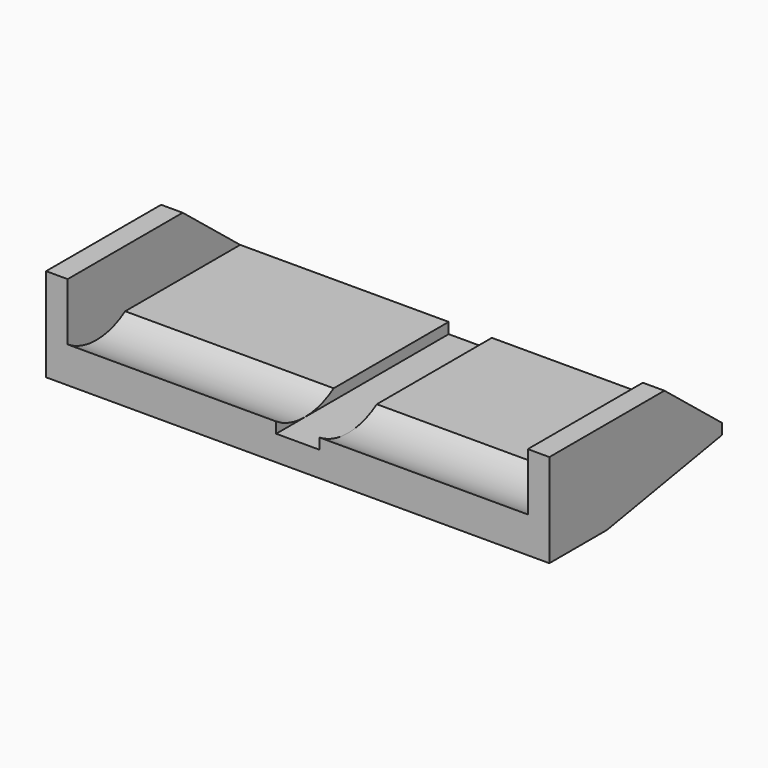
from build123d import *

# Parameters (mm, degrees)
F0_W      = 177.8
F0_H      = 76.2
F1_DEPTH  = 12.7
F3_DEPTH  = 197.612
F4_W      = 7.62
F4_H      = 76.2
F5_DEPTH  = 20.32
F6_W      = 7.62
F6_H      = 76.2
F7_DEPTH  = 20.32
F9_DEPTH  = 73.66
F11_DEPTH = 73.66
F13_DEPTH = 228.6
F15_DEPTH = 228.6


with BuildPart() as f1:
    # F0 (on Top) → F1 (new body)
    with BuildSketch(Plane.XY):
        Rectangle(F0_W, F0_H)
    extrude(amount=F1_DEPTH)

    # F2 (on face) → F3 (cut)
    with BuildSketch(Plane.XZ.offset(38.1)):
        Polygon((-7.62, 8.89), (0, 8.89), (7.62, 8.89), (7.62, 12.7), (-7.62, 12.7), align=None)
    extrude(amount=-F3_DEPTH, mode=Mode.SUBTRACT)

    # F4 (on face) → F5 (join)
    with BuildSketch(Plane.XY.offset(12.7)):
        with Locations((-85.09, 0)):
            Rectangle(F4_W, F4_H)
    extrude(amount=F5_DEPTH)

    # F6 (on face) → F7 (join)
    with BuildSketch(Plane.XY.offset(12.7)):
        with Locations((85.09, 0)):
            Rectangle(F6_W, F6_H)
    extrude(amount=F7_DEPTH)

    # F8 (on face) → F9 (cut)
    with BuildSketch(Plane.YZ.offset(-7.62)):
        with BuildLine():
            Line((-12.7, 12.7), (-38.1, 12.7))
            ThreePointArc((-38.1, 12.7), (-25.4, 8.898353), (-12.7, 12.7))
        make_face()
    extrude(amount=-F9_DEPTH, mode=Mode.SUBTRACT)

    # F10 (on face) → F11 (cut)
    with BuildSketch(Plane(origin=(7.62, 0, 0), x_dir=(0, -1, 0), z_dir=(-1, 0, 0))):
        with BuildLine():
            ThreePointArc((12.7, 12.7), (25.4, 8.898353), (38.1, 12.7))
            Line((38.1, 12.7), (12.7, 12.7))
        make_face()
    extrude(amount=-F11_DEPTH, mode=Mode.SUBTRACT)

    # F12 (on face) → F13 (cut)
    with BuildSketch(Plane(origin=(-88.9, 0, 0), x_dir=(0, -1, 0), z_dir=(-1, 0, 0))):
        Polygon((-38.1, 0), (12.7, 0), (-38.1, 8.89), align=None)
    extrude(amount=-F13_DEPTH, mode=Mode.SUBTRACT)

    # F14 (on face) → F15 (cut)
    with BuildSketch(Plane.YZ.offset(88.9)):
        Polygon((38.1, 33.02), (12.7, 33.02), (38.1, 12.7), align=None)
    extrude(amount=-F15_DEPTH, mode=Mode.SUBTRACT)


solid = f1.part
